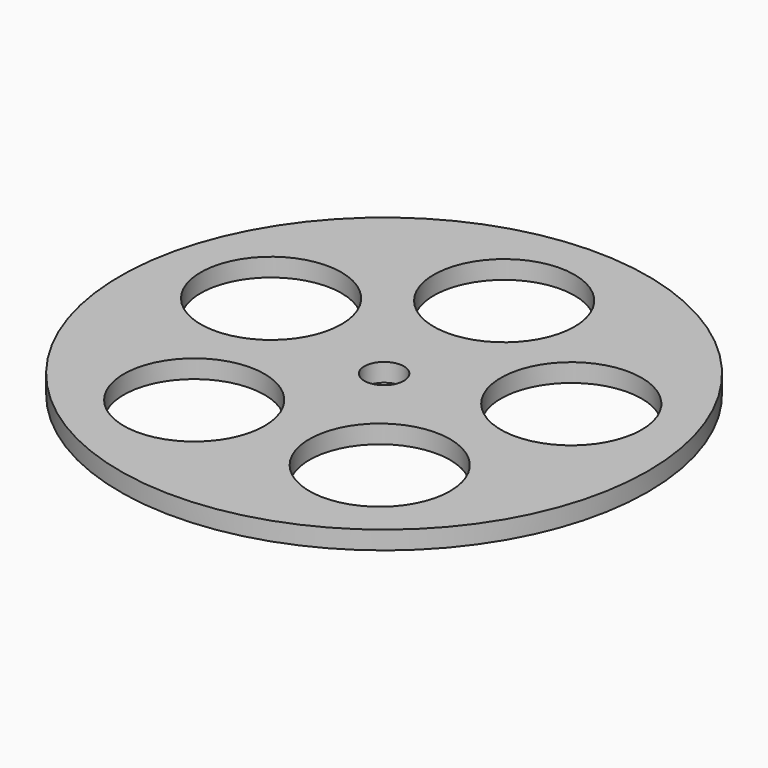
from build123d import *

# Parameters (mm, degrees)
F0_R     = 190.5
F0_R_2   = 50.8
F0_R_3   = 14.2621
F1_DEPTH = 13.208


with BuildPart() as f1:
    # F0 (on Top) → F1 (new body)
    with BuildSketch(Plane.XY):
        with Locations((-63.962243, -67.093033)):
            Circle(F0_R)
        with Locations((-127.425293, -159.086178)):
            Circle(F0_R_2, mode=Mode.SUBTRACT)
        with Locations((3.917277, -155.877425)):
            Circle(F0_R_2, mode=Mode.SUBTRACT)
        with Locations((-171.064085, -35.16353)):
            Circle(F0_R_2, mode=Mode.SUBTRACT)
        with Locations((-66.691771, 44.633631)):
            Circle(F0_R_2, mode=Mode.SUBTRACT)
        with Locations((-63.962243, -67.093033)):
            Circle(F0_R_3, mode=Mode.SUBTRACT)
        with Locations((41.452658, -29.971659)):
            Circle(F0_R_2, mode=Mode.SUBTRACT)
    extrude(amount=F1_DEPTH)


solid = f1.part
